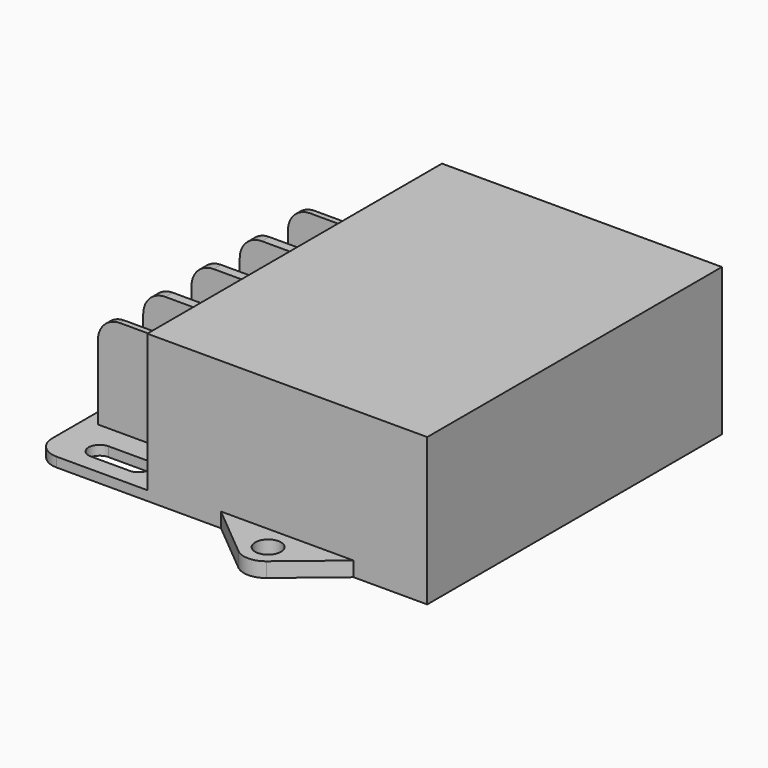
from build123d import *

# Parameters (mm, degrees)
F1_DEPTH = 20
F0_R     = 1.75
F2_DEPTH = 2
F3_DEPTH = 1.3
F4_W     = 13.5
F4_H     = 6.9375
F4_H_2   = 1.25
F4_H_3   = 0.75
F5_DEPTH = 6.1
F6_DEPTH = 13.1
F7_R     = 3


with BuildPart() as f1:
    # F0 (on Top) → F1 (new body)
    with BuildSketch(Plane.XY):
        Polygon((15.3, 50), (15.3, 0), (25.3, 0), (43.3, 0), (53.3, 0), (53.3, 50), (43.3, 50), (25.3, 50), align=None)
    extrude(amount=F1_DEPTH)

    # F0 (on Top) → F2 (join)
    with BuildSketch(Plane.XY):
        with BuildLine():
            Line((43.3, 0), (25.3, 0))
            Line((25.3, 0), (32.379446801, -5.8995390008))
            ThreePointArc((32.379446801, -5.8995390008), (34.3, -6.594875162), (36.220553199, -5.8995390008))
            Line((36.220553199, -5.8995390008), (43.3, 0))
        make_face()
        with Locations((34.3, -3.25)):
            Circle(F0_R, mode=Mode.SUBTRACT)
        with BuildLine():
            Line((32.379446801, 55.8995390008), (25.3, 50))
            Line((25.3, 50), (43.3, 50))
            Line((43.3, 50), (36.220553199, 55.8995390008))
            ThreePointArc((36.220553199, 55.8995390008), (34.3, 56.594875162), (32.379446801, 55.8995390008))
        make_face()
        with Locations((34.3, 53.25)):
            Circle(F0_R, mode=Mode.SUBTRACT)
    extrude(amount=F2_DEPTH)

    # F0 (on Top) → F3 (join)
    with BuildSketch(Plane.XY):
        with BuildLine():
            ThreePointArc((0, 3), (0.8786796564, 0.8786796564), (3, 0))
            Line((3, 0), (15.3, 0))
            Line((15.3, 0), (15.3, 50))
            Line((15.3, 50), (3, 50))
            ThreePointArc((3, 50), (0.8786796564, 49.1213203436), (0, 47))
            Line((0, 47), (0, 3))
        make_face()
        with BuildLine():
            Line((11.0706789419, 2.3), (5.8, 2.3))
            ThreePointArc((5.8, 2.3), (4.3, 3.8), (5.8, 5.3))
            Line((5.8, 5.3), (11.0706789419, 5.3))
            ThreePointArc((11.0706789419, 5.3), (12.5706789419, 3.8), (11.0706789419, 2.3))
        make_face(mode=Mode.SUBTRACT)
        with BuildLine():
            Line((11.0706789419, 44.7), (5.8, 44.7))
            ThreePointArc((5.8, 44.7), (4.3, 46.2), (5.8, 47.7))
            Line((5.8, 47.7), (11.0706789419, 47.7))
            ThreePointArc((11.0706789419, 47.7), (12.5706789419, 46.2), (11.0706789419, 44.7))
        make_face(mode=Mode.SUBTRACT)
    extrude(amount=F3_DEPTH)

    # F4 (on face) → F5 (join)
    with BuildSketch(Plane.XY.offset(1.3)):
        with Locations((8.55, 37.28125)):
            Rectangle(F4_W, F4_H)
        with Locations((8.55, 33.1875)):
            Rectangle(F4_W, F4_H_2)
        with Locations((8.55, 29.09375)):
            Rectangle(F4_W, F4_H)
        Polygon((15.3, 25), (15.3, 25.625), (1.8, 25.625), (1.8, 25), (1.8, 24.375), (15.3, 24.375), align=None)
        with Locations((8.55, 20.90625)):
            Rectangle(F4_W, F4_H)
        with Locations((8.55, 16.8125)):
            Rectangle(F4_W, F4_H_2)
        with Locations((8.55, 12.71875)):
            Rectangle(F4_W, F4_H)
        with Locations((8.55, 8.875)):
            Rectangle(F4_W, F4_H_3)
        with Locations((8.55, 41.125)):
            Rectangle(F4_W, F4_H_3)
    extrude(amount=F5_DEPTH)

    # F4 (on face) → F6 (join)
    with BuildSketch(Plane.XY.offset(1.3)):
        with Locations((8.55, 41.125)):
            Rectangle(F4_W, F4_H_3)
        with Locations((8.55, 8.875)):
            Rectangle(F4_W, F4_H_3)
        with Locations((8.55, 33.1875)):
            Rectangle(F4_W, F4_H_2)
        Polygon((15.3, 25), (15.3, 25.625), (1.8, 25.625), (1.8, 25), (1.8, 24.375), (15.3, 24.375), align=None)
        with Locations((8.55, 16.8125)):
            Rectangle(F4_W, F4_H_2)
    extrude(amount=F6_DEPTH)

    # F7
    f7_edges = [f1.edges().sort_by_distance(p)[0] for p in [
        (1.8, 41.125, 14.4),
        (1.8, 33.1875, 14.4),
        (1.8, 8.875, 14.4),
        (1.8, 25, 14.4),
        (1.8, 16.8125, 14.4),
    ]]
    fillet(f7_edges, radius=F7_R)


solid = f1.part
